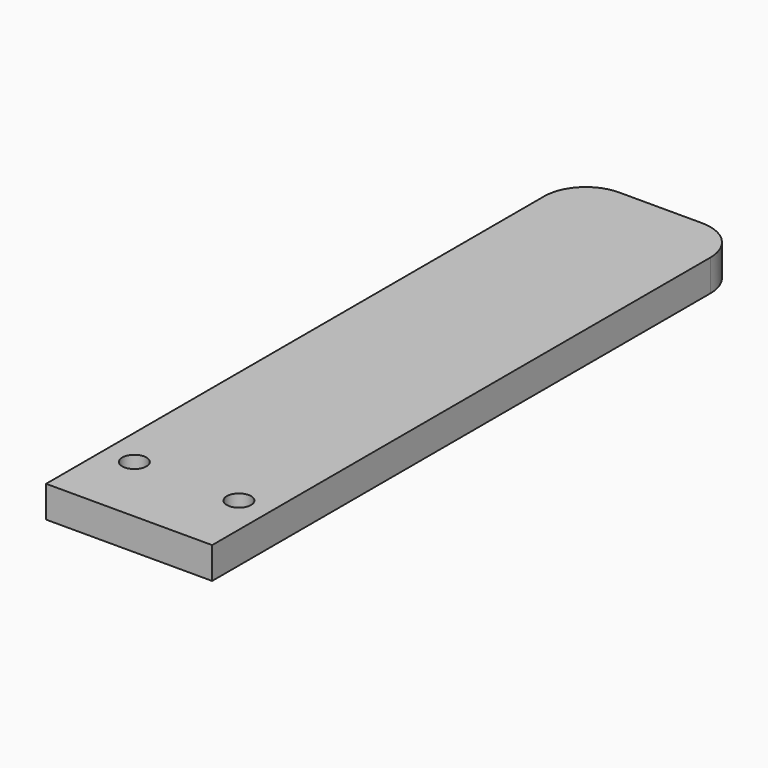
from build123d import *

# Parameters (mm, degrees)
F0_R     = 1.85
F1_DEPTH = 4.826


with BuildPart() as f1:
    # F0 (on Top) → F1 (new body)
    with BuildSketch(Plane.XY):
        with BuildLine():
            Line((0, 50.8), (-6.35, 50.8))
            ThreePointArc((-6.35, 50.8), (-10.840128, 48.940128), (-12.7, 44.45))
            Line((-12.7, 44.45), (-12.7, -50.8))
            add(Edge.make_bspline(
                [(0, 50.8), (-12.7, 50.8), (-12.7, -12.351775), (-12.7, -50.8)],
                knots=[0, 0, 0, 0, 102.390673, 102.390673, 102.390673, 102.390673], degree=3))
        make_face()
        with BuildLine():
            add(Edge.make_bspline(
                [(0, 50.8), (12.7, 50.8), (12.7, -12.351775), (12.7, -50.8)],
                knots=[0, 0, 0, 0, 102.390673, 102.390673, 102.390673, 102.390673], degree=3))
            add(Edge.make_bspline(
                [(0, 50.8), (-12.7, 50.8), (-12.7, -12.351775), (-12.7, -50.8)],
                knots=[0, 0, 0, 0, 102.390673, 102.390673, 102.390673, 102.390673], degree=3))
            Line((-12.7, -50.8), (12.7, -50.8))
        make_face()
        with Locations((-8, -39.8)):
            Circle(F0_R, mode=Mode.SUBTRACT)
        with Locations((8, -39.8)):
            Circle(F0_R, mode=Mode.SUBTRACT)
        with BuildLine():
            Line((6.35, 50.8), (0, 50.8))
            add(Edge.make_bspline(
                [(0, 50.8), (12.7, 50.8), (12.7, -12.351775), (12.7, -50.8)],
                knots=[0, 0, 0, 0, 102.390673, 102.390673, 102.390673, 102.390673], degree=3))
            Line((12.7, -50.8), (12.7, 44.45))
            ThreePointArc((12.7, 44.45), (10.840128, 48.940128), (6.35, 50.8))
        make_face()
    extrude(amount=F1_DEPTH)


solid = f1.part
